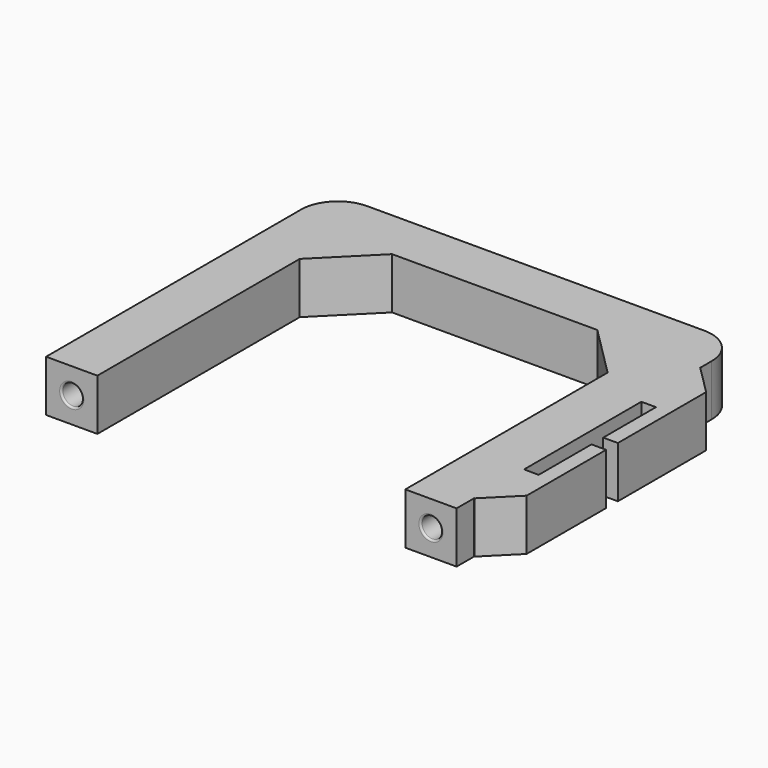
from build123d import *

# Parameters (mm, degrees)
CYLINDER001_R          = 1.4
CYLINDER001_DEPTH      = 10
CYLINDER001_ROLL_ANGLE = -90
CYLINDER_R             = 1.4
CYLINDER_DEPTH         = 10
CYLINDER_ROLL_ANGLE    = -90
BOX005_W               = 2
BOX005_H               = 2
BOX005_DEPTH           = 7
BOX003_W               = 2
BOX003_H               = 20
BOX003_DEPTH           = 7
BOX001_W               = 7
BOX001_H               = 48.5
BOX001_DEPTH           = 7
BOX002_W               = 7
BOX002_H               = 48.5
BOX002_DEPTH           = 7
BOX004_W               = 4
BOX004_H               = 38.5
BOX004_DEPTH           = 7
BOX_W                  = 42
BOX_H                  = 7
BOX_DEPTH              = 7
CHAMFER_SIZE           = 3.95
CHAMFER001_SIZE        = 7
FILLET_R               = 5
FILLET001_R            = 0.25


with BuildPart() as bolt2:
    # Cylinder001 → Cylinder001 (new body)
    with BuildSketch(Plane.XY):
        Circle(CYLINDER001_R)
    extrude(amount=CYLINDER001_DEPTH)


with BuildPart() as bolt2_1:
    # Cylinder001 roll: moved
    add(bolt2.part.rotate(Axis((0, 0, 0), (1, 0, 0)), CYLINDER001_ROLL_ANGLE))


with BuildPart() as bolt2_2:
    # Cylinder001 placement: moved
    add(bolt2_1.part.moved(Location((45.5, -42, 3.5))))


with BuildPart() as bolt1:
    # Cylinder → Cylinder (new body)
    with BuildSketch(Plane.XY):
        Circle(CYLINDER_R)
    extrude(amount=CYLINDER_DEPTH)


with BuildPart() as bolt1_1:
    # Cylinder roll: moved
    add(bolt1.part.rotate(Axis((0, 0, 0), (1, 0, 0)), CYLINDER_ROLL_ANGLE))


with BuildPart() as bolt1_2:
    # Cylinder placement: moved
    add(bolt1_1.part.moved(Location((-3.5, -42, 3.5))))


with BuildPart() as cable_slot2:
    # Box005 → Box005 (new body)
    with BuildSketch(Plane(origin=(51, -21, 0), x_dir=(1, 0, 0), z_dir=(0, 0, 1))):
        with Locations((1, 1)):
            Rectangle(BOX005_W, BOX005_H)
    extrude(amount=BOX005_DEPTH)


with BuildPart() as cable_slot:
    # Box003 → Box003 (new body)
    with BuildSketch(Plane(origin=(49, -30, 0), x_dir=(1, 0, 0), z_dir=(0, 0, 1))):
        with Locations((1, 10)):
            Rectangle(BOX003_W, BOX003_H)
    extrude(amount=BOX003_DEPTH)


with BuildPart() as side1:
    # Box001 → Box001 (new body)
    with BuildSketch(Plane(origin=(-7, -41.5, 0), x_dir=(1, 0, 0), z_dir=(0, 0, 1))):
        with Locations((3.5, 24.25)):
            Rectangle(BOX001_W, BOX001_H)
    extrude(amount=BOX001_DEPTH)


with BuildPart() as side2:
    # Box002 → Box002 (new body)
    with BuildSketch(Plane(origin=(42, -41.5, 0), x_dir=(1, 0, 0), z_dir=(0, 0, 1))):
        with Locations((3.5, 24.25)):
            Rectangle(BOX002_W, BOX002_H)
    extrude(amount=BOX002_DEPTH)


with BuildPart() as cable_support:
    # Box004 → Box004 (new body)
    with BuildSketch(Plane(origin=(49, -38.5, 0), x_dir=(1, 0, 0), z_dir=(0, 0, 1))):
        with Locations((2, 19.25)):
            Rectangle(BOX004_W, BOX004_H)
    extrude(amount=BOX004_DEPTH)


with BuildPart() as holder_clamp:
    # Box → Box (new body)
    with BuildSketch(Plane.XY):
        with Locations((21, 3.5)):
            Rectangle(BOX_W, BOX_H)
    extrude(amount=BOX_DEPTH)

    # Fusion: union Side1, Side2, cable-support
    add(side1.part)
    add(side2.part)
    add(cable_support.part)

    # Cut: cut cable-slot
    add(cable_slot.part, mode=Mode.SUBTRACT)

    # Cut001: cut cable-slot2
    add(cable_slot2.part, mode=Mode.SUBTRACT)

    # Cut002: cut Bolt1
    add(bolt1_2.part, mode=Mode.SUBTRACT)

    # Cut003: cut Bolt2
    add(bolt2_2.part, mode=Mode.SUBTRACT)

    # Chamfer
    chamfer_edges = [holder_clamp.edges().sort_by_distance(p)[0] for p in [
        (53, -38.5, 3.5),
        (53, 0, 3.5),
    ]]
    chamfer(chamfer_edges, length=CHAMFER_SIZE)

    # Chamfer001
    chamfer001_edges = [holder_clamp.edges().sort_by_distance(p)[0] for p in [
        (42, 0, 3.5),
        (0, 0, 3.5),
    ]]
    chamfer(chamfer001_edges, length=CHAMFER001_SIZE)

    # Fillet
    fillet_edges = [holder_clamp.edges().sort_by_distance(p)[0] for p in [
        (49, 7, 3.5),
        (-7, 7, 3.5),
    ]]
    fillet(fillet_edges, radius=FILLET_R)

    # Fillet001
    fillet001_edges = [holder_clamp.edges().sort_by_distance(p)[0] for p in [
        (44.1, -41.5, 3.5),
        (-4.9, -41.5, 3.5),
    ]]
    fillet(fillet001_edges, radius=FILLET001_R)


solid = holder_clamp.part
